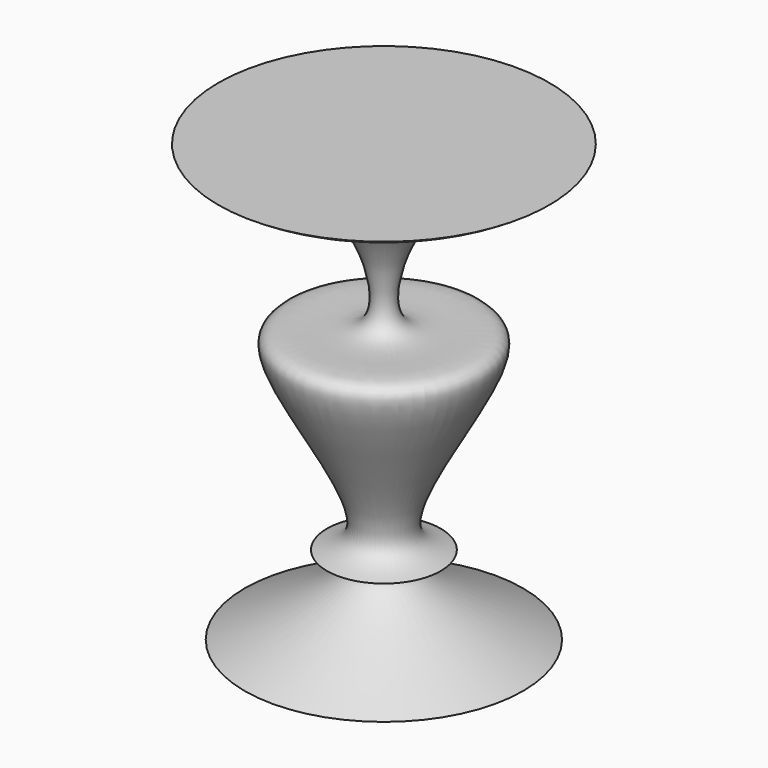
from build123d import *


with BuildPart() as f1:
    # F0 (on Front) → F1 (revolve)
    with BuildSketch(Plane.XZ):
        with BuildLine():
            Line((-35.0874438882, -59.8081387579), (0, -59.8081387579))
            Line((0, -59.8081387579), (0, 50.2388365567))
            Line((0, 50.2388365567), (-41.7327918112, 50.2388365567))
            add(Edge.make_bspline(
                [(-35.0874438882, -59.8081387579), (-19.9486612024, -52.386083273), (2.1871859434, -41.5335934041), (-19.8418022617, -39.7580520129), (5.0993016714, -38.5972148508), (-42.1958979308, 18.7020838839), (6.6253506993, 0.6246494319), (-11.9039904515, 48.5424486046), (-34.853384897, 45.826549333), (-39.8760258554, 49.0479512367), (-41.7327918112, 50.2388365567)],
                knots=[0, 0, 0, 0, 0.1614250535, 0.2360348507, 0.3164976434, 0.5081803368, 0.6334360207, 0.7941263589, 0.9238927944, 1, 1, 1, 1], degree=3))
        make_face()
    revolve(axis=Axis((0, 0, -4.7846511006), (0, 0, -1)))


solid = f1.part
